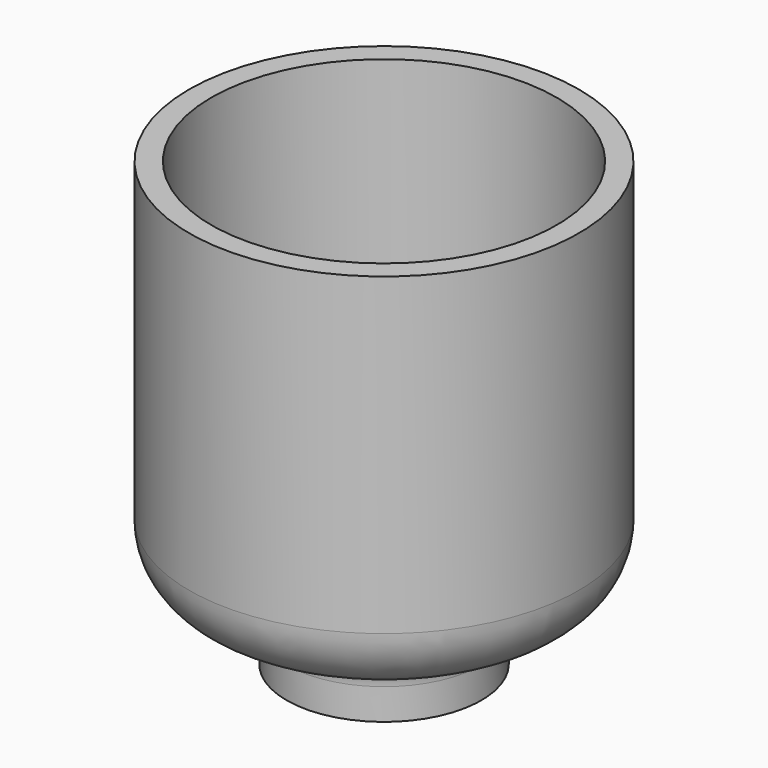
from build123d import *


with BuildPart() as f1:
    # F0 (on Front) → F1 (revolve)
    with BuildSketch(Plane.XZ):
        with BuildLine():
            Line((-5, 0), (0, 0))
            Line((0, 0), (0, 7))
            ThreePointArc((0, 7), (-1.113366, 12.047892), (-4.246868, 16.159091))
            ThreePointArc((-4.246868, 16.159091), (-7.871386, 18.267411), (-12, 19))
            ThreePointArc((-12, 19), (-19.071068, 21.928932), (-22, 29))
            Line((-22, 29), (-22, 100))
            Line((-22, 100), (-27, 100))
            Line((-27, 100), (-27, 29))
            ThreePointArc((-27, 29), (-22.606602, 18.393398), (-12, 14))
            ThreePointArc((-12, 14), (-7.050253, 11.949747), (-5, 7))
            Line((-5, 7), (-5, 0))
        make_face()
    revolve(axis=Axis((17, 0, 30.384544), (0, 0, 1)))


solid = f1.part
